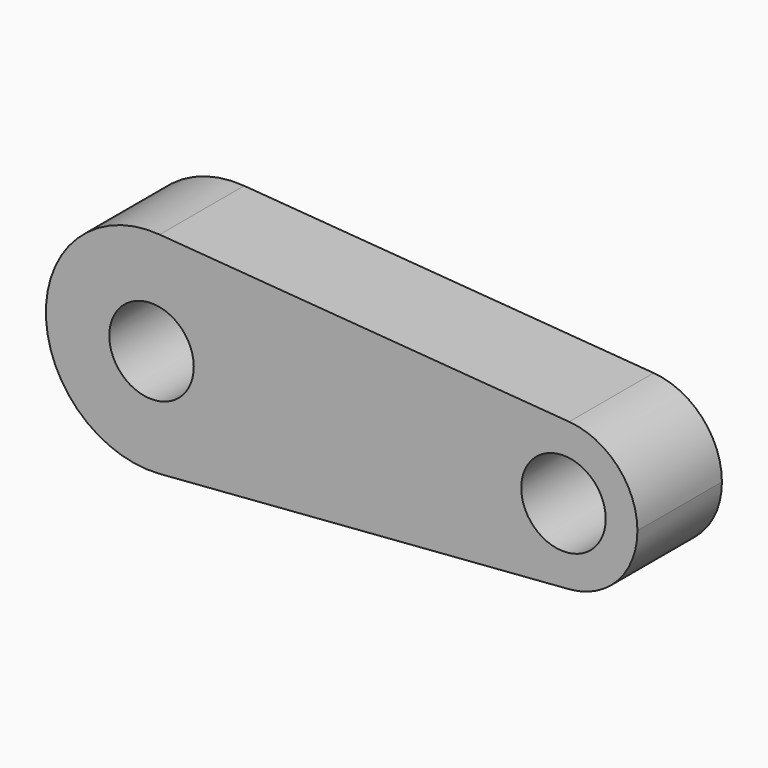
from build123d import *

# Parameters (mm, degrees)
F0_R     = 10
F1_DEPTH = 25


with BuildPart() as f1:
    # F0 (on Front) → F1 (new body)
    with BuildSketch(Plane.XZ):
        with BuildLine():
            ThreePointArc((115, 0), (110.341489, 11.888909), (98.846154, 17.448148))
            ThreePointArc((98.846154, 17.448148), (80, 0), (98.846154, -17.448148))
            ThreePointArc((98.846154, -17.448148), (110.341489, -11.888909), (115, 0))
        make_face()
        with Locations((97.5, 0)):
            Circle(F0_R, mode=Mode.SUBTRACT)
        with BuildLine():
            ThreePointArc((1.923077, -24.925926), (18.344985, -16.984156), (25, 0))
            ThreePointArc((25, 0), (18.344985, 16.984156), (1.923077, 24.925926))
            ThreePointArc((1.923077, 24.925926), (-25, 0), (1.923077, -24.925926))
        make_face()
        Circle(F0_R, mode=Mode.SUBTRACT)
        with BuildLine():
            ThreePointArc((1.923077, 24.925926), (18.344985, 16.984156), (25, 0))
            ThreePointArc((25, 0), (18.344985, -16.984156), (1.923077, -24.925926))
            Line((1.923077, -24.925926), (98.846154, -17.448148))
            ThreePointArc((98.846154, -17.448148), (80, 0), (98.846154, 17.448148))
            Line((98.846154, 17.448148), (1.923077, 24.925926))
        make_face()
    extrude(amount=F1_DEPTH)


solid = f1.part
